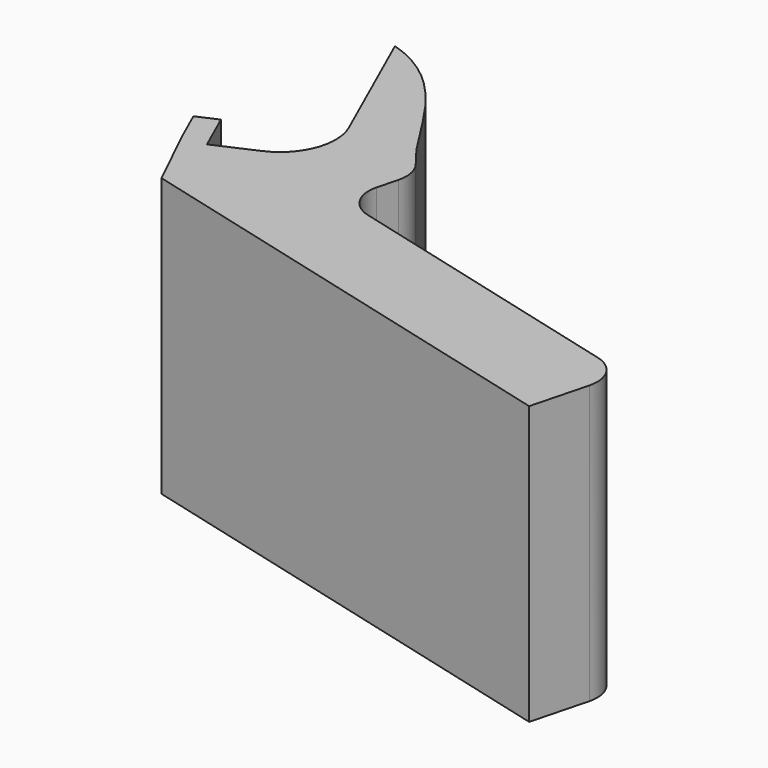
from build123d import *

# Parameters (mm, degrees)
F1_DEPTH = 25


with BuildPart() as f1:
    # F0 (on Top) → F1 (new body)
    with BuildSketch(Plane.XY):
        with BuildLine():
            Line((-53.02006511, -61.9876122369), (-51.7984479666, -64.7276216447))
            Line((-51.7984479666, -64.7276216447), (-48.9015094936, -70.7276216447))
            Line((-48.9015094936, -70.7276216447), (-7.067788858, -81.6828012466))
            Line((-7.067788858, -81.6828012466), (-5.7319759294, -76.5818328549))
            ThreePointArc((-5.7319759294, -76.5818328549), (-6.0445944675, -74.307113622), (-7.8741185505, -72.9196989154))
            Line((-7.8741185505, -72.9196989154), (-34.0728518514, -66.0589219084))
            ThreePointArc((-34.0728518514, -66.0589219084), (-35.9019127851, -64.6722987085), (-36.2154585687, -62.3985623915))
            Line((-36.2154585687, -62.3985623915), (-35.7293080128, -60.5374937602))
            ThreePointArc((-35.7293080128, -60.5374937602), (-35.6977969852, -59.1539897626), (-36.2906249479, -57.9035373393))
            add(Edge.make_bspline(
                [(-48.6356823932, -44.8081299245), (-42.8606271744, -46.5504713356), (-39.5795192791, -53.7440296366), (-36.7424715785, -57.3395441131), (-36.2906249479, -57.9035373393)],
                knots=[0, 0, 0, 0, 0.6139145896, 0.7417447614, 0.7417447614, 0.7417447614, 0.7417447614], degree=3))
            Line((-48.6356823932, -44.8081299245), (-43.4246748123, -56.496087868))
            ThreePointArc((-43.4246748123, -56.496087868), (-43.3225354938, -60.3215588848), (-45.9553285862, -63.0987987868))
            Line((-45.9553285862, -63.0987987868), (-49.6086744633, -64.7276216447))
            Line((-49.6086744633, -64.7276216447), (-51.1933921715, -61.173200808))
            Line((-51.1933921715, -61.173200808), (-53.02006511, -61.9876122369))
        make_face()
    extrude(amount=F1_DEPTH)


solid = f1.part
